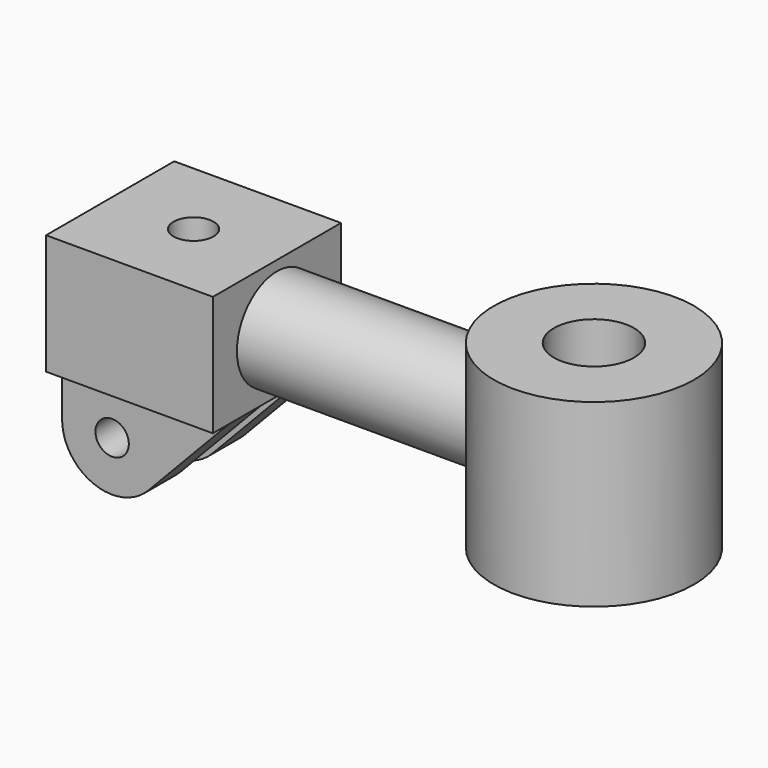
from build123d import *

# Parameters (mm, degrees)
F0_R      = 30
F0_R_2    = 12
F1_DEPTH  = 54
F2_W      = 50
F2_H      = 36
F3_DEPTH  = 24
F6_W      = 120
F6_H      = 15
F8_R      = 6
F9_DEPTH  = 36
F10_R     = 5
F11_DEPTH = 21.6843753096
F13_R     = 5
F14_DEPTH = 12
F16_R     = 12
F17_DEPTH = 75.001


with BuildPart() as f1:
    # F0 (on Top) → F1 (new body)
    with BuildSketch(Plane.XY):
        Circle(F0_R)
        Circle(F0_R_2, mode=Mode.SUBTRACT)
    extrude(amount=F1_DEPTH)



with BuildPart() as f3:
    # F2 (on Front) → F3 (new body, symmetric)
    with BuildSketch(Plane.XZ):
        with Locations((-120, 27)):
            Rectangle(F2_W, F2_H)
    extrude(amount=F3_DEPTH, both=True)


with BuildPart() as f1_1:
    add(f1.part)

    add(f3.part)  # F7 merges F3
    # F6 (on offset) → F7 (revolve)
    with BuildSketch(Plane.XY.offset(27)):
        with Locations((-60, -7.5)):
            Rectangle(F6_W, F6_H)
    revolve(axis=Axis((-60, 0, 27), (1, 0, 0)))

    # F8 (on face) → F9 (cut, through all)
    with BuildSketch(Plane.XY.offset(45)):
        with Locations((-120, 0)):
            Circle(F8_R)
    extrude(amount=-F9_DEPTH, mode=Mode.SUBTRACT)

    # F10 (on face) → F11 (cut, through all)
    with BuildSketch(Plane(origin=(-145, 0, 0), x_dir=(0, -1, 0), z_dir=(-1, 0, 0))):
        with Locations((0, 27)):
            Circle(F10_R)
    extrude(amount=-F11_DEPTH, mode=Mode.SUBTRACT)

    # F13 (on offset) → F14 (join)
    with BuildSketch(Plane.XZ.offset(18)):
        with BuildLine():
            Line((-119.1379310345, -16.3448275862), (-95, 9))
            Line((-95, 9), (-145, 9))
            Line((-145, 9), (-145, -6))
            ThreePointArc((-145, -6), (-135.5708601453, -19.9271503633), (-119.1379310345, -16.3448275862))
        make_face()
        with Locations((-130, -6)):
            Circle(F13_R, mode=Mode.SUBTRACT)
    extrude(amount=-F14_DEPTH)

    # F15: F1 across plane


with BuildPart() as f1_2:
    add(f1_1.part)
    add(f1_1.part.mirror(Plane.XZ))

    # F16 (on face) → F17 (cut, through all)
    with BuildSketch(Plane.XY.offset(54)):
        Circle(F16_R)
    extrude(amount=-F17_DEPTH, mode=Mode.SUBTRACT)


solid = f1_2.part
